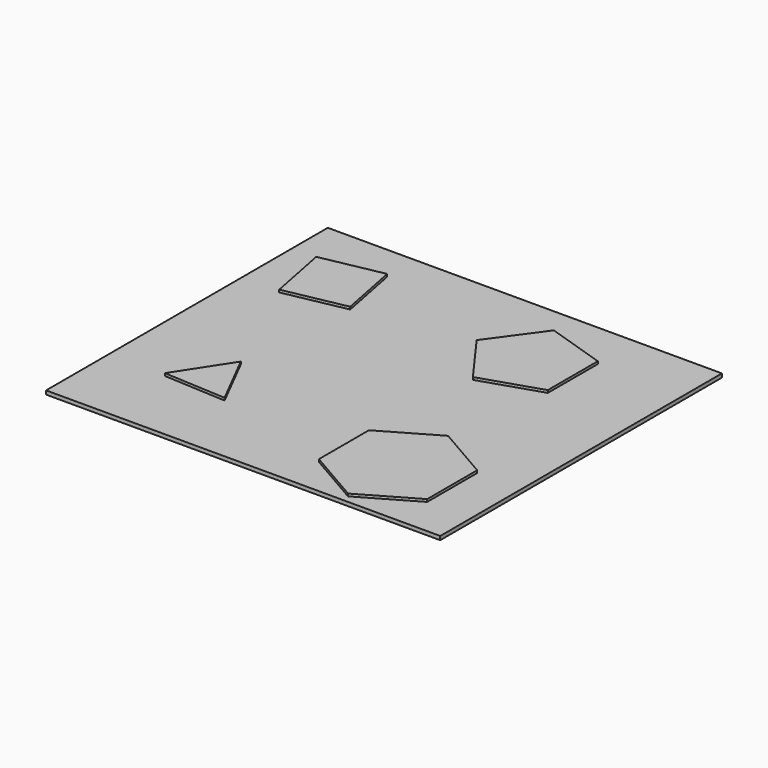
from build123d import *

# Parameters (mm, degrees)
F0_W     = 315.2838349342
F0_H     = 281.6659808159
F1_DEPTH = 3
F4_DEPTH = 5


with BuildPart() as f1:
    # F0 (on Top) → F1 (new body)
    with BuildSketch(Plane.XY):
        Rectangle(F0_W, F0_H)
    extrude(amount=F1_DEPTH)


with BuildPart() as f4:
    # F2 (on Top) → F4 (new body)
    with BuildSketch(Plane.XY):
        Polygon((-77.6110729951, 63.2337894617), (-87.264929372, 112.2929685932), (-136.3241085034, 102.6391122163), (-126.6702521266, 53.5799330849), align=None)
    extrude(amount=F4_DEPTH)


with BuildPart() as f4b:
    # F2 (on Top) → F4, piece 2 (new body)
    with BuildSketch(Plane.XY):
        Polygon((89.2451841273, 52.2303909983), (89.2451841273, 102.2303909983), (41.6923583126, 117.681240717), (12.303095698, 77.2303909983), (41.6923583126, 36.7795412795), align=None)
    extrude(amount=F4_DEPTH)


with BuildPart() as f4c:
    # F2 (on Top) → F4, piece 3 (new body)
    with BuildSketch(Plane.XY):
        Polygon((-61.9768510605, -81.9730617128), (-84.619029346, -37.3935623607), (-111.9049191302, -79.292013629), align=None)
    extrude(amount=F4_DEPTH)


with BuildPart() as f4d:
    # F2 (on Top) → F4, piece 4 (new body)
    with BuildSketch(Plane.XY):
        Polygon((122.5249998593, -109.9908813834), (122.5249998593, -59.9908813834), (79.22372967, -34.9908813834), (35.9224594808, -59.9908813834), (35.9224594808, -109.9908813834), (79.22372967, -134.9908813834), align=None)
    extrude(amount=F4_DEPTH)


solid = Compound([f1.part, f4.part, f4b.part, f4c.part, f4d.part])
